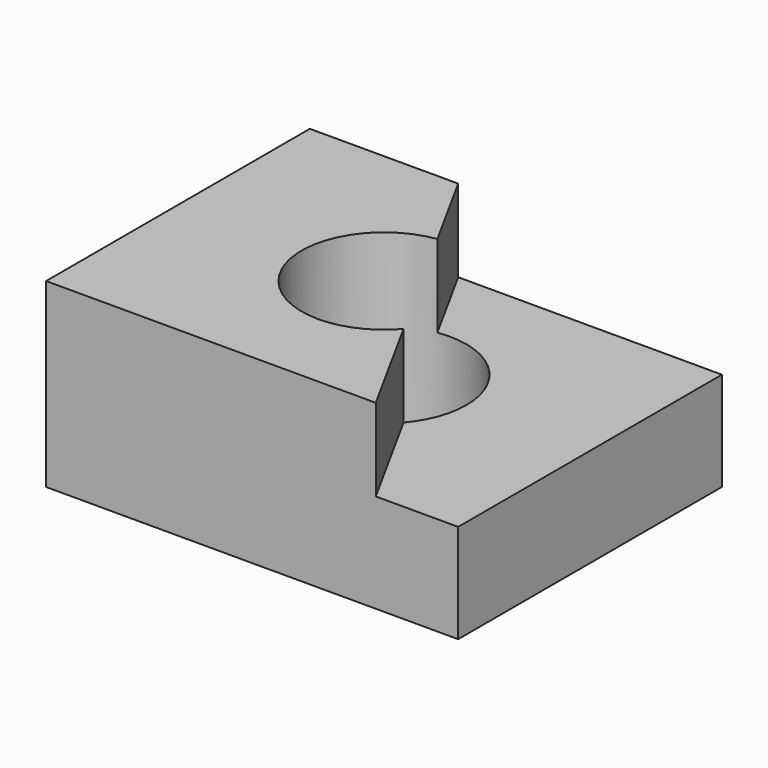
from build123d import *

# Parameters (mm, degrees)
F0_W     = 100
F0_H     = 80
F0_R     = 20
F1_DEPTH = 44
F3_DEPTH = 20


with BuildPart() as f1:
    # F0 (on Top) → F1 (new body)
    with BuildSketch(Plane.XY):
        Rectangle(F0_W, F0_H)
        Circle(F0_R, mode=Mode.SUBTRACT)
    extrude(amount=F1_DEPTH)

    # F2 (on face) → F3 (cut)
    with BuildSketch(Plane.XY.offset(44)):
        with BuildLine():
            Line((50, 40), (-14, 40))
            Line((-14, 40), (-2.8849574507, 19.7908317285))
            ThreePointArc((-2.8849574507, 19.7908317285), (13.0824472287, 15.1277749358), (20, 0))
            ThreePointArc((20, 0), (18.7534067701, -6.9505204492), (15.1690265486, -13.0345937247))
            Line((15.1690265486, -13.0345937247), (30, -40))
            Line((30, -40), (50, -40))
            Line((50, -40), (50, 40))
        make_face()
    extrude(amount=-F3_DEPTH, mode=Mode.SUBTRACT)


solid = f1.part
